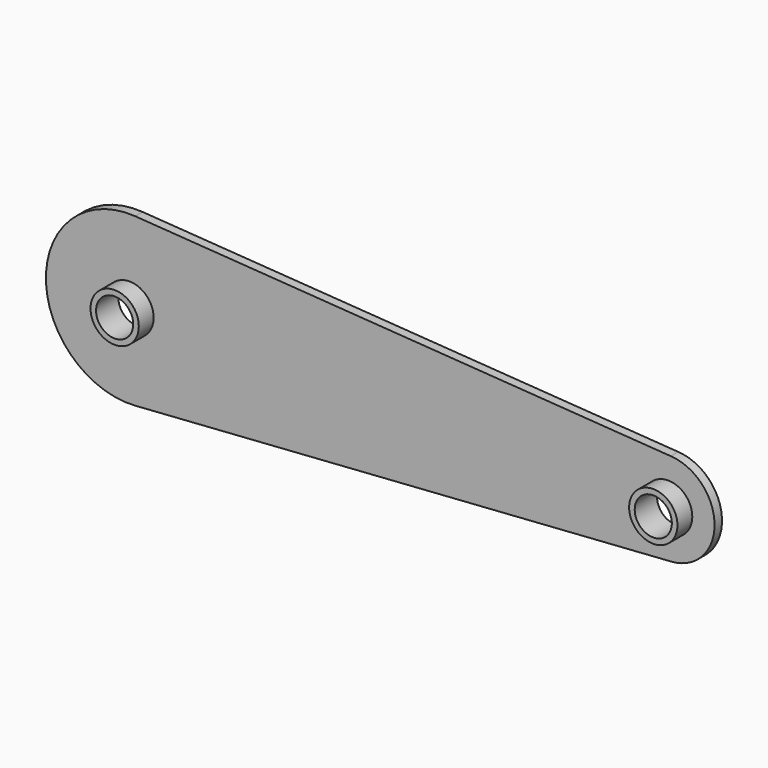
from build123d import *

# Parameters (mm, degrees)
F0_R     = 8.255
F1_DEPTH = 3.175
F2_DEPTH = 9.525
F3_D     = 12.7


with BuildPart() as f1:
    # F0 (on Front) → F1 (new body)
    with BuildSketch(Plane.XZ):
        with BuildLine():
            Line((92.999168, 15.848077), (-90.104167, 28.506954))
            ThreePointArc((-90.104167, 28.506954), (-120.65, 0), (-90.104167, -28.506954))
            Line((-90.104167, -28.506954), (92.999168, -15.848077))
            ThreePointArc((92.999168, -15.848077), (107.95, 0), (92.999168, 15.848077))
        make_face()
        with Locations((-92.075, 0)):
            Circle(F0_R, mode=Mode.SUBTRACT)
        with Locations((92.075, 0)):
            Circle(F0_R, mode=Mode.SUBTRACT)
    extrude(amount=F1_DEPTH)

    # F0 (on Front) → F2 (join)
    with BuildSketch(Plane.XZ):
        with Locations((-92.075, 0)):
            Circle(F0_R)
        with Locations((92.075, 0)):
            Circle(F0_R)
    extrude(amount=F2_DEPTH)

    # F3 (through all)
    with Locations(Plane(origin=(0, 0, 0), x_dir=(1, 0, 0), z_dir=(0, 1, 0))):
        with Locations((-92.075, 0), (92.075, 0)):
            Hole(F3_D / 2)


solid = f1.part
